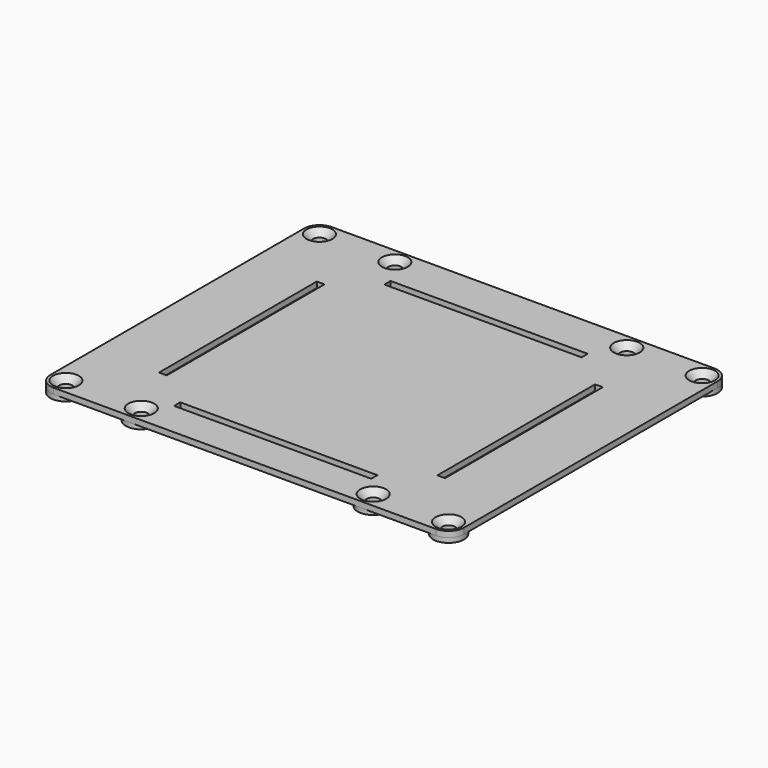
from build123d import *

# Parameters (mm, degrees)
SKETCH030_W             = 51
SKETCH030_H             = 2
SKETCH030_W_2           = 2
SKETCH030_H_2           = 51
PAD018_DEPTH            = 1.5
SKETCH031_R             = 4
SKETCH031_R_2           = 1.6
PAD019_DEPTH            = 2.7
HOLE_D                  = 3.4
HOLE_DEPTH              = 25
HOLE_CSINK_D            = 6.7
HOLE_CSINK_ANGLE        = 90
BODY008_PLACEMENT_ANGLE = 180


with BuildPart() as part:
    # Sketch030 → Pad018 (new body)
    with BuildSketch(Plane.XY):
        with BuildLine():
            Line((-53.5, 40), (-53.5, -42))
            ThreePointArc((-53.5, -42), (-52.328427, -44.828427), (-49.5, -46))
            Line((-49.5, -46), (49.5, -46))
            ThreePointArc((49.5, -46), (52.328427, -44.828427), (53.5, -42))
            Line((53.5, -42), (53.5, 40))
            ThreePointArc((53.5, 40), (52.328427, 42.828427), (49.5, 44))
            Line((49.5, 44), (-49.5, 44))
            ThreePointArc((-49.5, 44), (-52.328427, 42.828427), (-53.5, 40))
        make_face()
        with Locations((0, 34)):
            Rectangle(SKETCH030_W, SKETCH030_H, mode=Mode.SUBTRACT)
        with Locations((0, -34)):
            Rectangle(SKETCH030_W, SKETCH030_H, mode=Mode.SUBTRACT)
        with Locations((36, 0)):
            Rectangle(SKETCH030_W_2, SKETCH030_H_2, mode=Mode.SUBTRACT)
        with Locations((-36, 0)):
            Rectangle(SKETCH030_W_2, SKETCH030_H_2, mode=Mode.SUBTRACT)
    extrude(amount=PAD018_DEPTH)

    # Sketch031 → Pad019 (join)
    with BuildSketch(Plane.XY):
        with Locations((-49.5, 40)):
            Circle(SKETCH031_R)
        with Locations((-49.5, 40)):
            Circle(SKETCH031_R_2, mode=Mode.SUBTRACT)
        with Locations((-30, 40)):
            Circle(SKETCH031_R)
        with Locations((-30, 40)):
            Circle(SKETCH031_R_2, mode=Mode.SUBTRACT)
        with Locations((30, 40)):
            Circle(SKETCH031_R)
        with Locations((30, 40)):
            Circle(SKETCH031_R_2, mode=Mode.SUBTRACT)
        with Locations((30, -42)):
            Circle(SKETCH031_R)
        with Locations((30, -42)):
            Circle(SKETCH031_R_2, mode=Mode.SUBTRACT)
        with Locations((-30, -42)):
            Circle(SKETCH031_R)
        with Locations((-30, -42)):
            Circle(SKETCH031_R_2, mode=Mode.SUBTRACT)
        with Locations((-49.5, -42)):
            Circle(SKETCH031_R)
        with Locations((-49.5, -42)):
            Circle(SKETCH031_R_2, mode=Mode.SUBTRACT)
        with Locations((49.5, -42)):
            Circle(SKETCH031_R)
        with Locations((49.5, -42)):
            Circle(SKETCH031_R_2, mode=Mode.SUBTRACT)
        with Locations((49.5, 40)):
            Circle(SKETCH031_R)
        with Locations((49.5, 40)):
            Circle(SKETCH031_R_2, mode=Mode.SUBTRACT)
    extrude(amount=PAD019_DEPTH)

    # Hole
    with Locations(Plane(origin=(0, 0, 0), x_dir=(1, 0, 0), z_dir=(0, 0, -1))):
        with Locations((-49.5, -40), (-30, -40), (30, -40), (30, 42), (-30, 42), (-49.5, 42), (-49.5, 42), (-30, 42), (30, 42), (30, -40), (-30, -40), (-49.5, -40), (49.5, 42), (49.5, 42), (49.5, -40), (49.5, -40)):
            CounterSinkHole(HOLE_D / 2, HOLE_CSINK_D / 2, depth=HOLE_DEPTH, counter_sink_angle=HOLE_CSINK_ANGLE)


with BuildPart() as part_1:
    # Body008 placement: moved
    add(part.part.moved(Location((0, -1.8, 71.3))).rotate(Axis((0, -1.8, 71.3), (1, 0, 0)), BODY008_PLACEMENT_ANGLE))


solid = part_1.part
